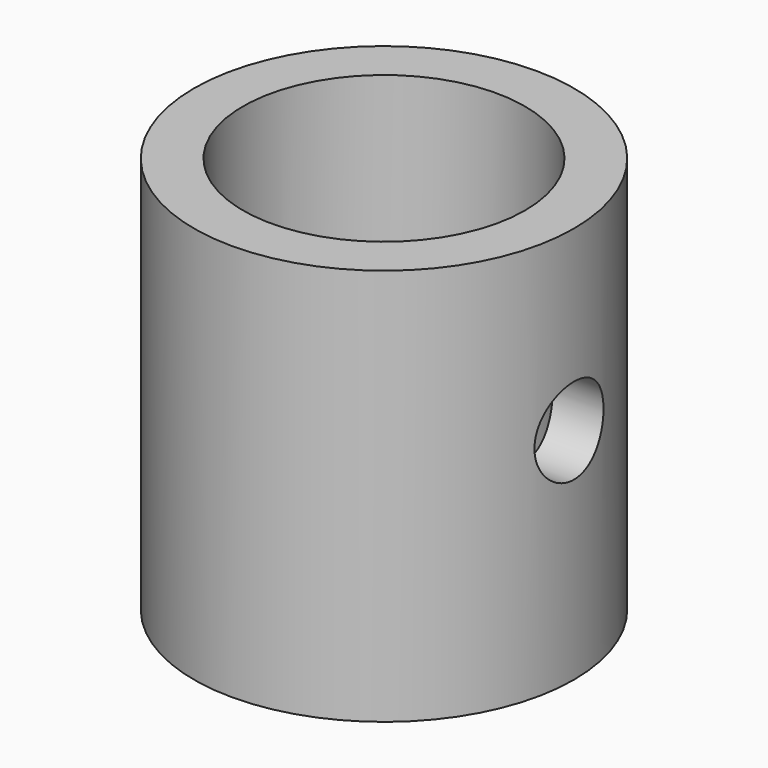
from build123d import *

# Parameters (mm, degrees)
F0_R     = 62.308409
F0_R_2   = 46.256373
F1_DEPTH = 130.302
F2_R     = 14.154335
F3_DEPTH = 63.5


with BuildPart() as f1:
    # F0 (on Top) → F1 (new body)
    with BuildSketch(Plane.XY):
        Circle(F0_R)
        Circle(F0_R_2, mode=Mode.SUBTRACT)
    extrude(amount=F1_DEPTH)

    # F2 (on Right) → F3 (cut, symmetric)
    with BuildSketch(Plane.YZ):
        with Locations((0, 71.951598)):
            Circle(F2_R)
    extrude(amount=F3_DEPTH, both=True, mode=Mode.SUBTRACT)


solid = f1.part
